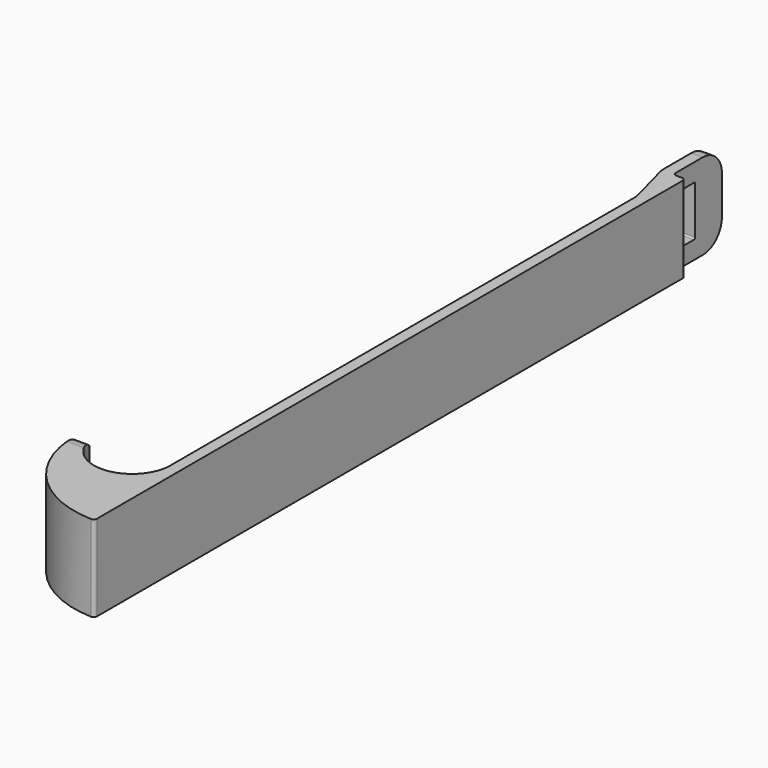
from build123d import *

# Parameters (mm, degrees)
F1_DEPTH = 9
F2_R     = 5
F4_START = -10
F4_DEPTH = 20
F6_DEPTH = 10
F7_R     = 5


with BuildPart() as f1:
    # F0 (on Top) → F1 (new body, symmetric)
    with BuildSketch(Plane.XY):
        with BuildLine():
            Line((-2.6, 2.2), (0, -7.5033320997))
            Line((0, -7.5033320997), (0, -129.5))
            ThreePointArc((0, -129.5), (-7.1872847082, -137.4586113019), (-15.8348734636, -131.1170212766))
            ThreePointArc((-15.8348734636, -131.1170212766), (-17.3482014958, -130.0072430222), (-18.6059763198, -131.4))
            ThreePointArc((-18.6059763198, -131.4), (-12.7073180305, -145.995204112), (1.6758691731, -152.3934912697))
            ThreePointArc((1.6758691731, -152.3934912697), (2.1863683898, -152.1973413167), (2.4, -151.6939073197))
            Line((2.4, -151.6939073197), (2.4, 1.5))
            ThreePointArc((2.4, 1.5), (2.1949747468, 1.9949747468), (1.7, 2.2))
            Line((1.7, 2.2), (0.5, 2.2))
            ThreePointArc((0.5, 2.2), (0.0050252532, 2.4050252532), (-0.2, 2.9))
            Line((-0.2, 2.9), (-0.2, 15))
            Line((-0.2, 15), (-2.6, 15))
            Line((-2.6, 15), (-2.6, 2.2))
        make_face()
    extrude(amount=F1_DEPTH, both=True)

    # F2
    f2_edges = [f1.edges().sort_by_distance(p)[0] for p in [
        (-2.6, 2.2, 0),
        (0, -7.503332, 0),
    ]]
    fillet(f2_edges, radius=F2_R)

    # F3 (on Right) → F4 (cut)
    with BuildSketch(Plane.YZ.offset(F4_START)):
        with BuildLine():
            ThreePointArc((-129.4, -5), (-130.5715728753, -7.8284271247), (-133.4, -9))
            Line((-133.4, -9), (-133.4, -10))
            Line((-133.4, -10), (-128.4, -10))
            Line((-128.4, -10), (-128.4, 10))
            Line((-128.4, 10), (-133.4, 10))
            Line((-133.4, 10), (-133.4, 9))
            ThreePointArc((-133.4, 9), (-130.5715728753, 7.8284271247), (-129.4, 5))
            Line((-129.4, 5), (-129.4, -5))
        make_face()
    extrude(amount=-F4_DEPTH, mode=Mode.SUBTRACT)

    # F5 (on Right) → F6 (cut)
    with BuildSketch(Plane.YZ):
        with BuildLine():
            ThreePointArc((7.7, -5.25), (7.9121320344, -5.1621320344), (8, -4.95))
            Line((8, -4.95), (8, 4.95))
            ThreePointArc((8, 4.95), (7.9121320344, 5.1621320344), (7.7, 5.25))
            Line((7.7, 5.25), (5.5, 5.25))
            ThreePointArc((5.5, 5.25), (4.7928932188, 4.9571067812), (4.5, 4.25))
            Line((4.5, 4.25), (4.5, -4.25))
            ThreePointArc((4.5, -4.25), (4.7928932188, -4.9571067812), (5.5, -5.25))
            Line((5.5, -5.25), (7.7, -5.25))
        make_face()
    extrude(amount=-F6_DEPTH, mode=Mode.SUBTRACT)

    # F7
    f7_edges = [f1.edges().sort_by_distance(p)[0] for p in [
        (-1.4, 15, -9),
        (-1.4, 15, 9),
    ]]
    fillet(f7_edges, radius=F7_R)


solid = f1.part
